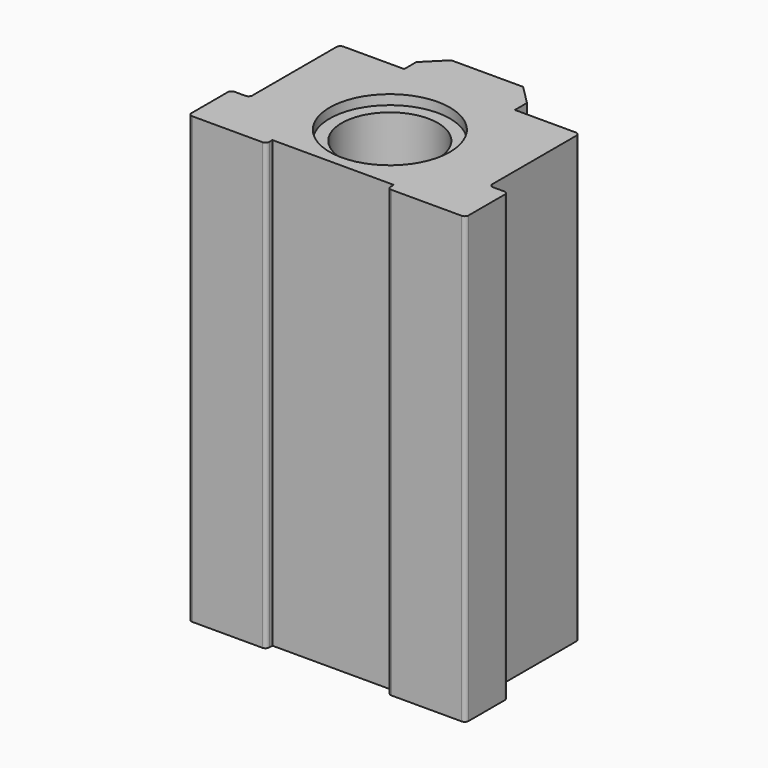
from build123d import *

# Parameters (mm, degrees)
F0_R     = 25.1778110622
F0_W     = 9.7031409531
F0_H     = 27.7212755755
F1_DEPTH = 233.172
F3_DEPTH = 233.172
F4_SIZE  = 10.16
F5_R     = 2
F6_R     = 31.5278110622
F7_DEPTH = 5.08
F8_R     = 31.5278110622
F9_DEPTH = 5.08


with BuildPart() as f1:
    # F0 (on Top) → F1 (new body)
    with BuildSketch(Plane.XY):
        Polygon((-28.9911830187, 45.647662133), (-62.8567745299, 45.647662133), (-62.8567745299, -13.4259527549), (-62.8567745299, -41.1472283304), (62.8567745299, -41.1472283304), (62.8567745299, -13.4259527549), (62.8567745299, 45.647662133), (28.9911830187, 45.647662133), (0, 45.647662133), align=None)
        Circle(F0_R, mode=Mode.SUBTRACT)
        Polygon((-28.9911830187, 63.7326575816), (-28.9911830187, 45.647662133), (0, 45.647662133), (28.9911830187, 45.647662133), (28.9911830187, 63.7326575816), align=None)
        with Locations((-67.7083450064, -27.2865905426)):
            Rectangle(F0_W, F0_H)
        with Locations((67.7083450064, -27.2865905426)):
            Rectangle(F0_W, F0_H)
    extrude(amount=F1_DEPTH)

    # F2 (on face) → F3 (cut, through all)
    with BuildSketch(Plane.XY.offset(233.172)):
        Polygon((-31.8065583706, -37.138659507), (-31.8065583706, -41.1472283304), (31.8065583706, -41.1472283304), (31.8065583706, -37.138659507), (0, -37.138659507), align=None)
    extrude(amount=-F3_DEPTH, mode=Mode.SUBTRACT)

    # F4
    f4_edges = [f1.edges().sort_by_distance(p)[0] for p in [
        (-28.991183, 63.732658, 116.586),
        (28.991183, 63.732658, 116.586),
    ]]
    chamfer(f4_edges, length=F4_SIZE)

    # F5
    f5_edges = [f1.edges().sort_by_distance(p)[0] for p in [
        (72.559915, -13.425953, 116.586),
        (72.559915, -41.147228, 116.586),
        (31.806558, -41.147228, 116.586),
        (-31.806558, -41.147228, 116.586),
        (-72.559915, -41.147228, 116.586),
        (-72.559915, -13.425953, 116.586),
        (-62.856775, 45.647662, 116.586),
        (62.856775, 45.647662, 116.586),
        (62.856775, -13.425953, 116.586),
        (-62.856775, -13.425953, 116.586),
    ]]
    fillet(f5_edges, radius=F5_R)

    # F6 (on face) → F7 (cut)
    with BuildSketch(Plane(origin=(0, 0, 0), x_dir=(1, 0, 0), z_dir=(0, 0, -1))):
        Circle(F6_R)
    extrude(amount=-F7_DEPTH, mode=Mode.SUBTRACT)

    # F8 (on face) → F9 (cut)
    with BuildSketch(Plane.XY.offset(233.172)):
        Circle(F8_R)
    extrude(amount=-F9_DEPTH, mode=Mode.SUBTRACT)


solid = f1.part
